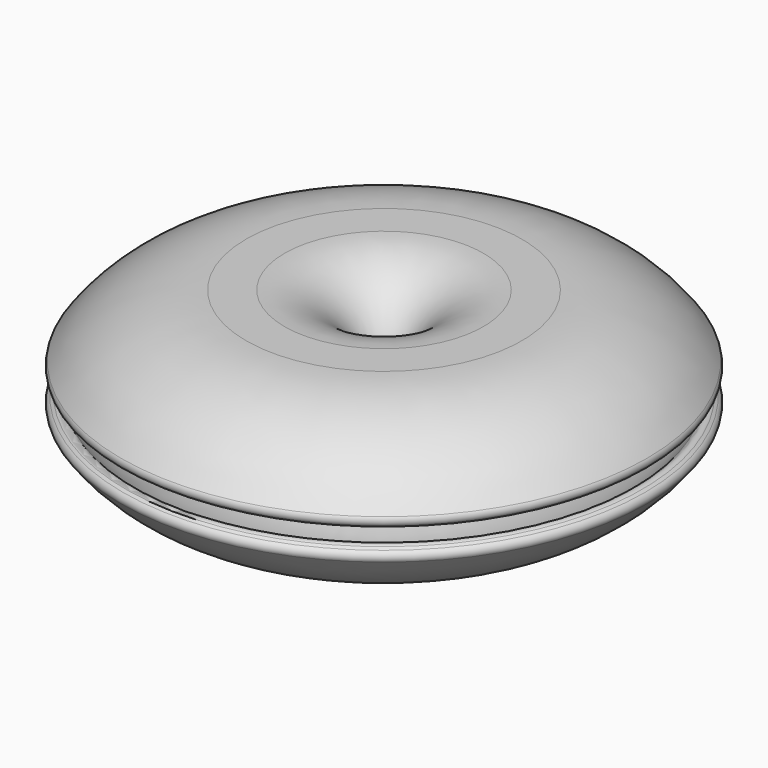
from build123d import *


with BuildPart() as f1:
    # F0 (on Front) → F1 (revolve)
    with BuildSketch(Plane.XZ):
        with BuildLine():
            ThreePointArc((-33.616525, 1.594819), (-24.683453, 8.59535), (-13.37938, 9.607843))
            ThreePointArc((-13.37938, 9.607843), (-5.510533, 0), (-13.37938, -9.607843))
            ThreePointArc((-13.37938, -9.607843), (-24.683453, -8.59535), (-33.616525, -1.594819))
            ThreePointArc((-33.616525, -1.594819), (-34.237007, -1.193621), (-34.963578, -1.327974))
            Line((-34.963578, -1.327974), (-35.387547, -1.594525))
            ThreePointArc((-35.387547, -1.594525), (-35.836104, -2.246139), (-35.670867, -3.019767))
            ThreePointArc((-35.670867, -3.019767), (-27.414565, -10.108705), (-16.797111, -12.493912))
            Line((-16.797111, -12.493912), (-11, -12.493912))
            ThreePointArc((-11, -12.493912), (1.493912, 0), (-11, 12.493912))
            Line((-11, 12.493912), (-16.797111, 12.493912))
            ThreePointArc((-16.797111, 12.493912), (-27.414565, 10.108705), (-35.670867, 3.019767))
            ThreePointArc((-35.670867, 3.019767), (-35.836104, 2.246139), (-35.387547, 1.594525))
            Line((-35.387547, 1.594525), (-34.963578, 1.327974))
            ThreePointArc((-34.963578, 1.327974), (-34.237007, 1.193621), (-33.616525, 1.594819))
        make_face()
    revolve(axis=Axis((4, 0, 7.492672), (0, 0, 1)))


solid = f1.part
